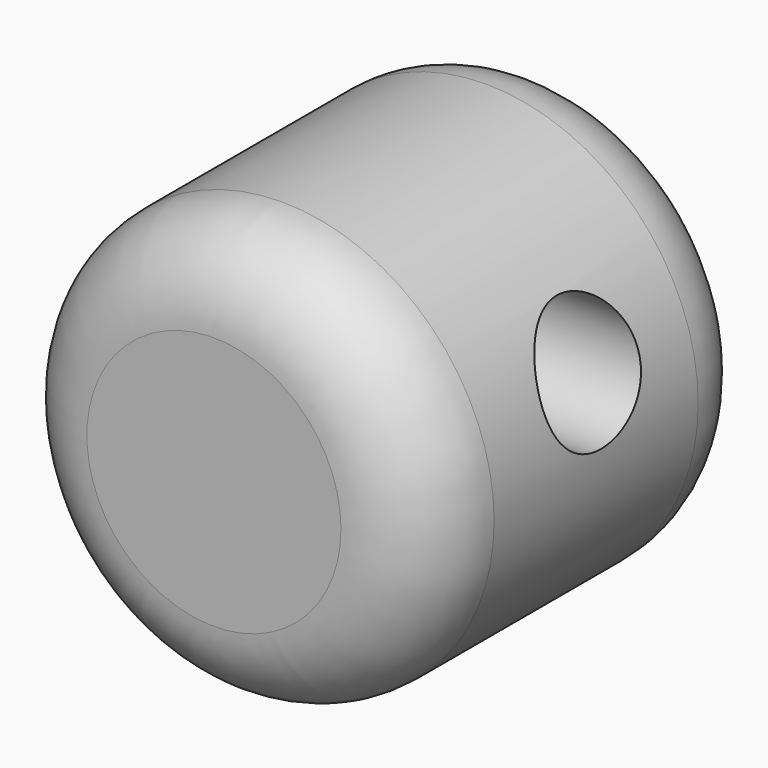
from build123d import *

# Parameters (mm, degrees)
F0_R      = 12.672559
F1_DEPTH  = 25.4
F2_R      = 5.08
F3_R      = 5.08
F4_R      = 3.609699
F5_DEPTH  = 50.8
F5_FACE_R = 3.609699
F6_DEPTH  = 101.6


with BuildPart() as f1:
    # F0 (on Front) → F1 (new body)
    with BuildSketch(Plane.XZ):
        Circle(F0_R)
    extrude(amount=F1_DEPTH)

    # F2
    f2_edges = [f1.edges().sort_by_distance(p)[0] for p in [
        (-12.672559, -25.4, 0),
    ]]
    fillet(f2_edges, radius=F2_R)

    # F3
    f3_edges = [f1.edges().sort_by_distance(p)[0] for p in [
        (-12.672559, 0, 0),
    ]]
    fillet(f3_edges, radius=F3_R)

    # F4 (on Right) → F5 (cut)
    with BuildSketch(Plane.YZ):
        with Locations((-12.31988, 4.152768)):
            Circle(F4_R)
    extrude(amount=-F5_DEPTH, mode=Mode.SUBTRACT)

    # F5_face (on face) → F6 (cut)
    with BuildSketch(Plane(origin=(0, -12.31988, 4.152768), x_dir=(0, 1, 0), z_dir=(-1, 0, 0))):
        Circle(F5_FACE_R)
    extrude(amount=-F6_DEPTH, mode=Mode.SUBTRACT)


solid = f1.part
